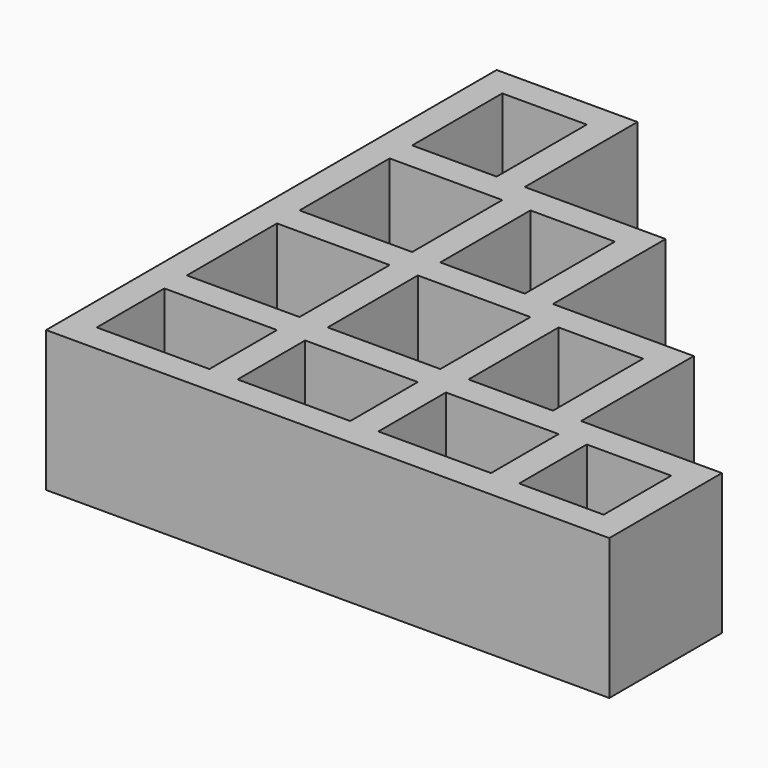
from build123d import *

# Parameters (mm, degrees)
F0_W     = 1
F0_H     = 1
F0_H_2   = 4
F0_W_2   = 4
F0_H_3   = 3
F0_W_3   = 3
F1_DEPTH = 5


with BuildPart() as f1:
    # F0 (on Top) → F1 (new body)
    with BuildSketch(Plane.XY):
        Polygon((0, 20), (0, 0), (5, 0), (5, 1), (1, 1), (1, 4), (1, 5), (1, 9), (1, 10), (1, 14), (1, 15), (1, 19), (4, 19), (4, 15), (4, 14), (5, 14), (5, 15), (5, 20), align=None)
        with Locations((5.5, 14.5)):
            Rectangle(F0_W, F0_H)
        Polygon((10, 15), (6, 15), (6, 14), (9, 14), (9, 10), (9, 9), (10, 9), (10, 10), align=None)
        with Locations((10.5, 9.5)):
            Rectangle(F0_W, F0_H)
        Polygon((15, 10), (11, 10), (11, 9), (14, 9), (14, 5), (14, 4), (15, 4), (15, 5), align=None)
        with Locations((10.5, 7)):
            Rectangle(F0_W, F0_H_2)
        with Locations((5.5, 9.5)):
            Rectangle(F0_W, F0_H)
        with Locations((5.5, 12)):
            Rectangle(F0_W, F0_H_2)
        with Locations((3, 9.5)):
            Rectangle(F0_W_2, F0_H)
        with Locations((5.5, 7)):
            Rectangle(F0_W, F0_H_2)
        with Locations((3, 4.5)):
            Rectangle(F0_W_2, F0_H)
        with Locations((5.5, 2.5)):
            Rectangle(F0_W, F0_H_3)
        with Locations((5.5, 4.5)):
            Rectangle(F0_W, F0_H)
        with Locations((5.5, 0.5)):
            Rectangle(F0_W, F0_H)
        with Locations((8, 0.5)):
            Rectangle(F0_W_2, F0_H)
        with Locations((8, 4.5)):
            Rectangle(F0_W_2, F0_H)
        with Locations((10.5, 4.5)):
            Rectangle(F0_W, F0_H)
        with Locations((10.5, 2.5)):
            Rectangle(F0_W, F0_H_3)
        with Locations((10.5, 0.5)):
            Rectangle(F0_W, F0_H)
        with Locations((13, 0.5)):
            Rectangle(F0_W_2, F0_H)
        with Locations((12.5, 4.5)):
            Rectangle(F0_W_3, F0_H)
        with Locations((15.5, 4.5)):
            Rectangle(F0_W, F0_H)
        with Locations((15.5, 2.5)):
            Rectangle(F0_W, F0_H_3)
        with Locations((15.5, 0.5)):
            Rectangle(F0_W, F0_H)
        Polygon((16, 1), (16, 0), (20, 0), (20, 5), (16, 5), (16, 4), (19, 4), (19, 1), align=None)
        with Locations((7.5, 9.5)):
            Rectangle(F0_W_3, F0_H)
        with Locations((2.5, 14.5)):
            Rectangle(F0_W_3, F0_H)
    extrude(amount=F1_DEPTH)


solid = f1.part
